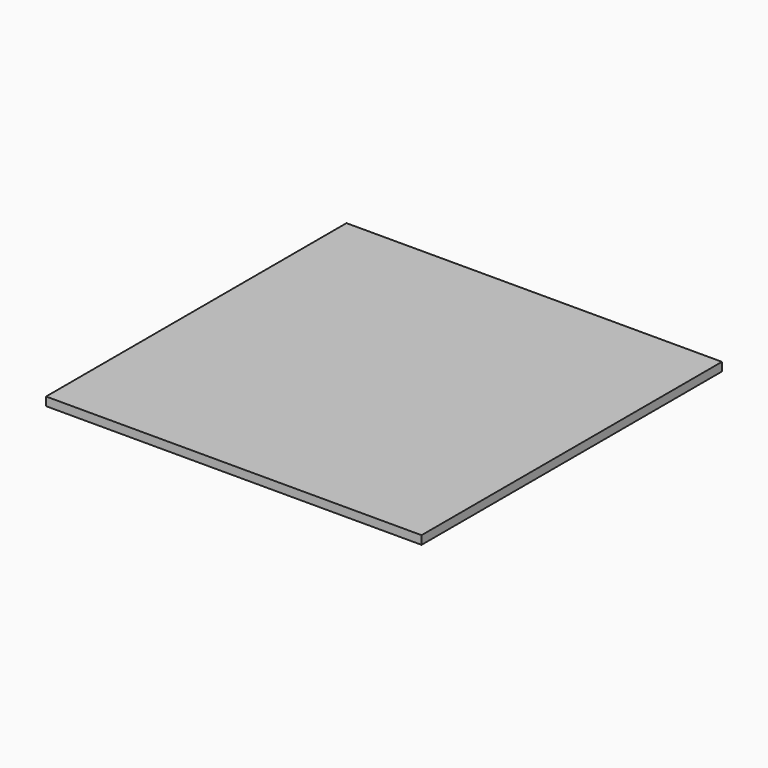
from build123d import *

# Parameters (mm, degrees)
F0_W     = 1100
F0_H     = 1100
F1_DEPTH = 25
F2_W     = 1000
F2_H     = 1000
F2_W_2   = 950
F2_H_2   = 950
F3_DEPTH = 25


with BuildPart() as f1:
    # F0 (on Top) → F1 (new body)
    with BuildSketch(Plane.XY):
        Rectangle(F0_W, F0_H)
    extrude(amount=F1_DEPTH)

    # F2 (on face) → F3 (join)
    with BuildSketch(Plane(origin=(0, 0, 0), x_dir=(1, 0, 0), z_dir=(0, 0, -1))):
        Rectangle(F2_W, F2_H)
        Rectangle(F2_W_2, F2_H_2, mode=Mode.SUBTRACT)
    extrude(amount=F3_DEPTH)


solid = f1.part
